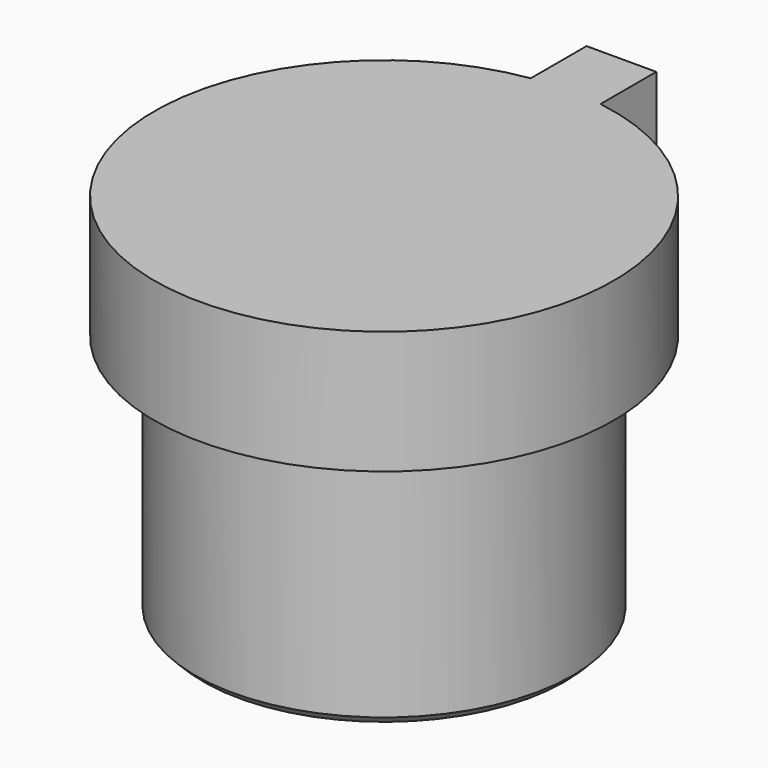
from build123d import *

# Parameters (mm, degrees)
SKETCH043_R     = 2.3
PAD030_DEPTH    = 3
PAD031_DEPTH    = 1.5
POCKET006_DEPTH = 0.6
CHAMFER_SIZE    = 0.1


with BuildPart() as part:
    # Sketch043 → Pad030 (new body)
    with BuildSketch(Plane.XY):
        Circle(SKETCH043_R)
    extrude(amount=PAD030_DEPTH)

    # Sketch044 (on Face3 of Pad030) → Pad031 (join)
    with BuildSketch(Plane.XY.offset(3)):
        with BuildLine():
            Line((0.425, 2.767558), (0.425, 3.617558))
            Line((0.425, 3.617558), (-0.425, 3.617558))
            Line((-0.425, 3.617558), (-0.425, 2.767558))
            ThreePointArc((-0.425, 2.767558), (0, -2.8), (0.425, 2.767558))
        make_face()
    extrude(amount=PAD031_DEPTH)

    # Sketch045 → Pocket006 (cut)
    with BuildSketch(Plane.XY):
        Polygon((-1.443376, -0.9), (0, 1.6), (1.443376, -0.9), align=None)
    extrude(amount=POCKET006_DEPTH, mode=Mode.SUBTRACT)

    # Chamfer
    chamfer_edges = [part.edges().sort_by_distance(p)[0] for p in [
        (-0.721688, 0.35, 0),
        (0, -0.9, 0),
        (0.721688, 0.35, 0),
        (-2.3, 0, 0),
    ]]
    chamfer(chamfer_edges, length=CHAMFER_SIZE)


with BuildPart() as part_1:
    # Body012 placement: moved
    add(part.part.moved(Location((63.6, 11.5, -1.5))))


solid = part_1.part
